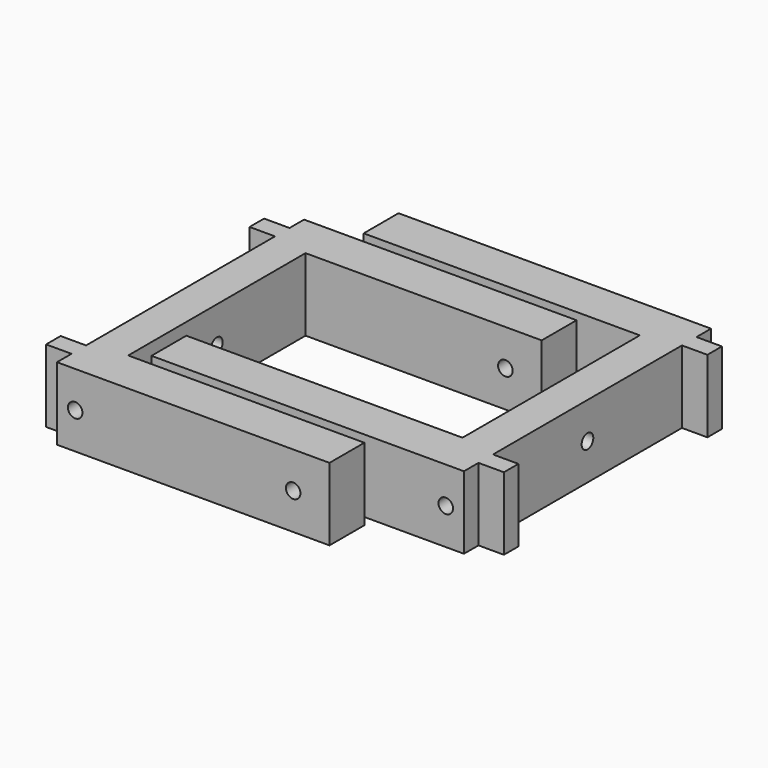
from build123d import *

# Parameters (mm, degrees)
PAD_DEPTH       = 20
SKETCH004_R     = 2
POCKET002_DEPTH = 75.001
SKETCH005_R     = 2
POCKET003_DEPTH = 85.001
PAD001_DEPTH    = 20
SKETCH007_R     = 2
POCKET004_DEPTH = 86.001
SKETCH008_R     = 2
POCKET005_DEPTH = 85.001


with BuildPart() as soporte_agujero_superior_lateral:
    # Sketch → Pad (new body)
    with BuildSketch(Plane.XY):
        Polygon((-10, -42.5), (65, -42.5), (65, -30.5), (0, -30.5), (0, 30.5), (65, 30.5), (65, 42.5), (-10, 42.5), (-10, 37.5), (-17, 37.5), (-17, 32.5), (-10, 32.5), (-10, -32.5), (-17, -32.5), (-17, -37.5), (-10, -37.5), align=None)
    extrude(amount=PAD_DEPTH)

    # Sketch004 → Pocket002 (cut, through all)
    with BuildSketch(Plane(origin=(-10, 0, 0), x_dir=(0, -1, 0), z_dir=(-1, 0, 0))):
        with Locations((0, 10)):
            Circle(SKETCH004_R)
    extrude(amount=-POCKET002_DEPTH, mode=Mode.SUBTRACT)

    # Sketch005 → Pocket003 (cut, through all)
    with BuildSketch(Plane.XZ.offset(42.5)):
        with Locations((-5, 10)):
            Circle(SKETCH005_R)
        with Locations((55, 10)):
            Circle(SKETCH005_R)
    extrude(amount=-POCKET003_DEPTH, mode=Mode.SUBTRACT)


with BuildPart() as soporte_agujero_superior_lateral001:
    # Sketch006 → Pad001 (new body)
    with BuildSketch(Plane(origin=(80, 15, 0), x_dir=(-1, 0, 0), z_dir=(0, 0, 1))):
        Polygon((-10, -42.5), (76, -42.5), (76, -30.5), (0, -30.5), (0, 30.5), (76, 30.5), (76, 42.5), (-10, 42.5), (-10, 37.5), (-17, 37.5), (-17, 32.5), (-10, 32.5), (-10, -32.5), (-17, -32.5), (-17, -37.5), (-10, -37.5), align=None)
    extrude(amount=PAD001_DEPTH)

    # Sketch007 → Pocket004 (cut, through all)
    with BuildSketch(Plane(origin=(90, 15, 0), x_dir=(0, 1, 0), z_dir=(1, 0, 0))):
        with Locations((0, 10)):
            Circle(SKETCH007_R)
    extrude(amount=-POCKET004_DEPTH, mode=Mode.SUBTRACT)

    # Sketch008 → Pocket005 (cut, through all)
    with BuildSketch(Plane(origin=(80, 57.5, 0), x_dir=(-1, 0, 0), z_dir=(0, 1, 0))):
        with Locations((-5, 10)):
            Circle(SKETCH008_R)
        with Locations((66, 10)):
            Circle(SKETCH008_R)
    extrude(amount=-POCKET005_DEPTH, mode=Mode.SUBTRACT)


solid = Compound([soporte_agujero_superior_lateral.part, soporte_agujero_superior_lateral001.part])
